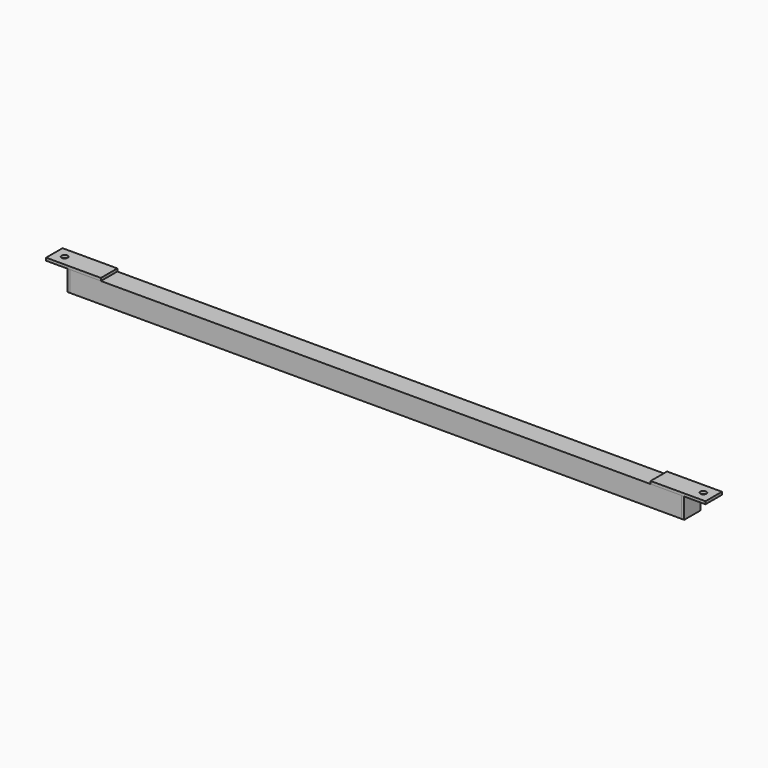
from build123d import *

# Parameters (mm, degrees)
F0_W     = 75
F0_H     = 75
F0_W_2   = 67
F0_H_2   = 67
F1_DEPTH = 2230
F2_W     = 75
F2_H     = 75
F3_DEPTH = 10
F4_W     = 75
F4_H     = 75
F5_DEPTH = 10
F6_R     = 11
F7_DEPTH = 10
F9_DEPTH = 10


with BuildPart() as f1:
    # F0 (on Right) → F1 (new body)
    with BuildSketch(Plane.YZ):
        Rectangle(F0_W, F0_H)
        Rectangle(F0_W_2, F0_H_2, mode=Mode.SUBTRACT)
    extrude(amount=F1_DEPTH)


with BuildPart() as f3:
    # F2 (on face) → F3 (new body)
    with BuildSketch(Plane.YZ.offset(2230)):
        Rectangle(F2_W, F2_H)
    extrude(amount=F3_DEPTH)


with BuildPart() as f5:
    # F4 (on face) → F5 (new body)
    with BuildSketch(Plane(origin=(0, 0, 0), x_dir=(0, -1, 0), z_dir=(-1, 0, 0))):
        Rectangle(F4_W, F4_H)
    extrude(amount=F5_DEPTH)


with BuildPart() as f7:
    # F6 (on face) → F7 (new body)
    with BuildSketch(Plane.XY.offset(37.5)):
        Polygon((0, -37.5), (0, 0), (0, 37.5), (-87.5, 37.5), (-87.5, -37.5), align=None)
        with Locations((-50, 0)):
            Circle(F6_R, mode=Mode.SUBTRACT)
        Polygon((0, 37.5), (0, 0), (0, -37.5), (112.5, -37.5), (112.5, 37.5), align=None)
    extrude(amount=F7_DEPTH)


with BuildPart() as f9:
    # F8 (on face) → F9 (new body)
    with BuildSketch(Plane.XY.offset(37.5)):
        Polygon((2117.5, -37.5), (2230, -37.5), (2317.5, -37.5), (2317.5, 37.5), (2117.5, 37.5), align=None)
        with BuildLine():
            ThreePointArc((2269, 0), (2280, 11), (2291, 0))
            ThreePointArc((2291, 0), (2280, -11), (2269, 0))
        make_face(mode=Mode.SUBTRACT)
    extrude(amount=F9_DEPTH)


solid = Compound([f1.part, f3.part, f5.part, f7.part, f9.part])
